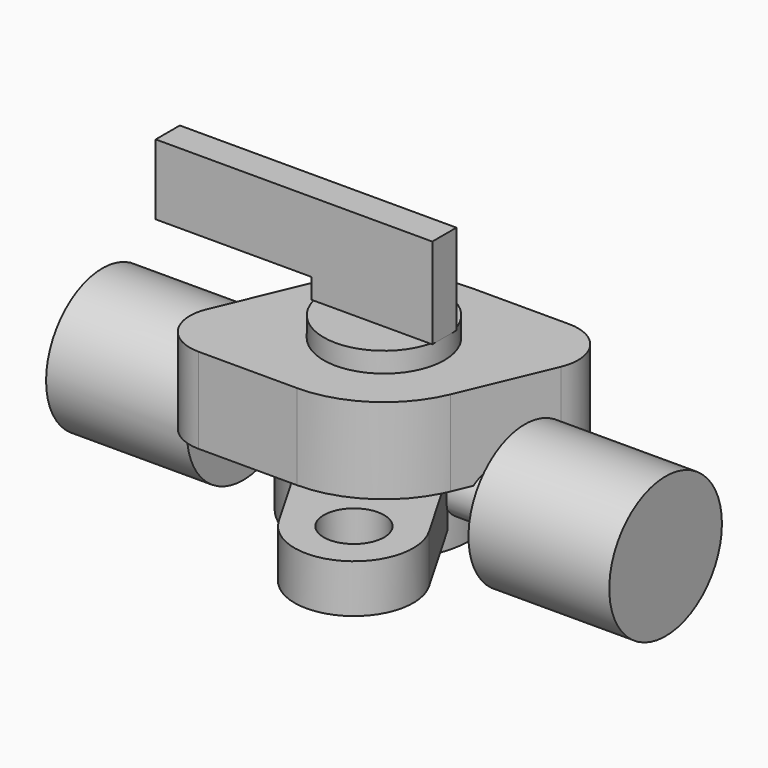
from build123d import *

# Parameters (mm, degrees)
SKETCH_R     = 8.5
SKETCH_R_2   = 7
PAD_DEPTH    = 6.5
SKETCH001_R  = 3
PAD001_DEPTH = 4.8
PAD002_DEPTH = 8.5
SKETCH003_R  = 6
PAD003_DEPTH = 2
SKETCH004_W  = 12
SKETCH004_H  = 3
PAD004_DEPTH = 2
SKETCH005_W  = 27.5
SKETCH005_H  = 3
PAD005_DEPTH = 7
SKETCH006_R  = 2.75
PAD006_DEPTH = 28
SKETCH007_R  = 7
PAD007_DEPTH = 14
SKETCH008_R  = 7
PAD008_DEPTH = 14


with BuildPart() as part:
    # Sketch → Pad (new body)
    with BuildSketch(Plane.XY):
        Circle(SKETCH_R)
        Circle(SKETCH_R_2, mode=Mode.SUBTRACT)
    extrude(amount=PAD_DEPTH)

    # Sketch001 (on Face4 of Pad) → Pad001 (join)
    with BuildSketch(Plane.XY.offset(6.5)):
        with BuildLine():
            ThreePointArc((2.6404501177, -16.3733937587), (10.7, -18.532943641), (12.8595498823, -10.4733937587))
            Line((12.8595498823, -10.4733937587), (8.1689615905, -2.3490565198))
            ThreePointArc((-2.0501381742, -8.2490565198), (4.25, -7.3612159322), (8.1689615905, -2.3490565198))
            Line((2.6404501177, -16.3733937587), (-2.0501381742, -8.2490565198))
        make_face()
        with Locations((7.75, -13.4233937587)):
            Circle(SKETCH001_R, mode=Mode.SUBTRACT)
    extrude(amount=-PAD001_DEPTH)

    # Sketch002 (on Face3 of Pad001) → Pad002 (join)
    with BuildSketch(Plane.XY.offset(6.5)):
        with BuildLine():
            Line((0, 10.8), (9.8, 10.8))
            ThreePointArc((13.7613854943, 4.8274495625), (13.3834317966, 8.8767659875), (9.8, 10.8))
            Line((9.9495263577, -4.2008243546), (13.7613854943, 4.8274495625))
            ThreePointArc((0, -10.8), (5.9695517826, -9.000247303), (9.9495263577, -4.2008243546))
            Line((0, -10.8), (-9.8000000001, -10.8))
            ThreePointArc((-13.7613854943, -4.8274495625), (-13.3834317966, -8.8767659875), (-9.8000000001, -10.8))
            Line((-9.9495263577, 4.2008243546), (-13.7613854943, -4.8274495625))
            ThreePointArc((7e-10, 10.8), (-5.9695517823, 9.0002473032), (-9.9495263577, 4.2008243546))
        make_face()
    extrude(amount=PAD002_DEPTH)

    # Sketch003 (on Face20 of Pad002) → Pad003 (join)
    with BuildSketch(Plane.XY.offset(15)):
        Circle(SKETCH003_R)
    extrude(amount=PAD003_DEPTH)

    # Sketch004 (on Face22 of Pad003) → Pad004 (join)
    with BuildSketch(Plane.XY.offset(17)):
        Rectangle(SKETCH004_W, SKETCH004_H)
    extrude(amount=PAD004_DEPTH)

    # Sketch005 (on Face32 of Pad004) → Pad005 (join)
    with BuildSketch(Plane.XY.offset(19)):
        with Locations((-7.75, 0)):
            Rectangle(SKETCH005_W, SKETCH005_H)
    extrude(amount=PAD005_DEPTH)

    # Sketch006 → Pad006 (join, symmetric)
    with BuildSketch(Plane.YZ):
        with Locations((0, 5)):
            Circle(SKETCH006_R)
    extrude(amount=PAD006_DEPTH, both=True)

    # Sketch007 (on Face13 of Pad006) → Pad007 (join)
    with BuildSketch(Plane.YZ.offset(28)):
        with Locations((0, 5)):
            Circle(SKETCH007_R)
    extrude(amount=-PAD007_DEPTH)

    # Sketch008 (on Face20 of Pad007) → Pad008 (join)
    with BuildSketch(Plane(origin=(-28, 0, 0), x_dir=(0, -1, 0), z_dir=(-1, 0, 0))):
        with Locations((0, 5)):
            Circle(SKETCH008_R)
    extrude(amount=-PAD008_DEPTH)


solid = part.part
